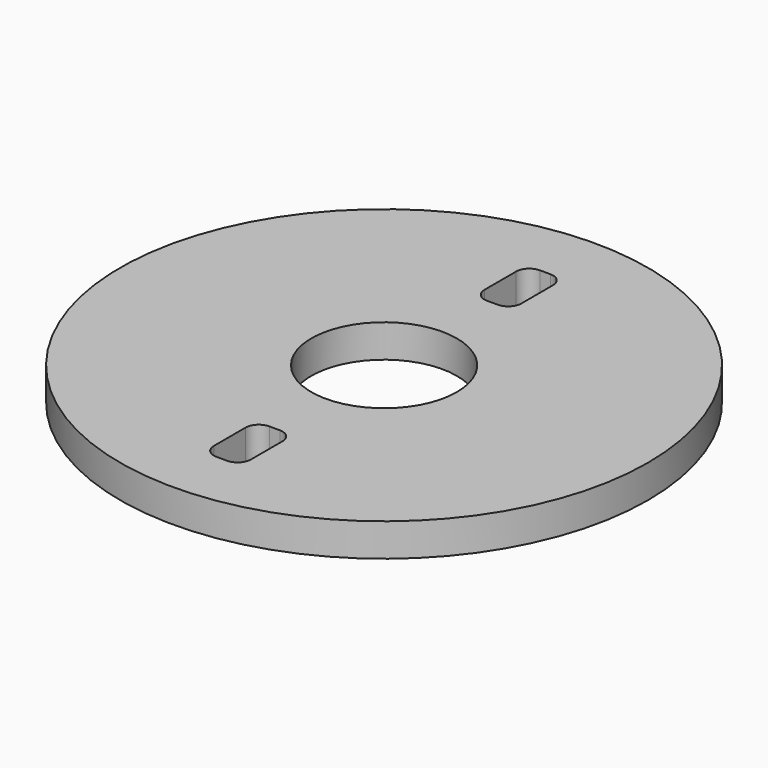
from build123d import *

# Parameters (mm, degrees)
F0_R     = 25.4
F0_R_2   = 7
F1_DEPTH = 3.175


with BuildPart() as f1:
    # F0 (on Top) → F1 (new body)
    with BuildSketch(Plane.XY):
        Circle(F0_R)
        with BuildLine():
            Line((-0.518496, -13.15886), (0.497504, -13.15886))
            ThreePointArc((0.497504, -13.15886), (1.39553, -13.530834), (1.767504, -14.42886))
            Line((1.767504, -14.42886), (1.767504, -18.23886))
            ThreePointArc((1.767504, -18.23886), (1.39553, -19.136886), (0.497504, -19.50886))
            Line((0.497504, -19.50886), (-0.518496, -19.50886))
            ThreePointArc((-0.518496, -19.50886), (-1.416522, -19.136886), (-1.788496, -18.23886))
            Line((-1.788496, -18.23886), (-1.788496, -14.42886))
            ThreePointArc((-1.788496, -14.42886), (-1.416522, -13.530834), (-0.518496, -13.15886))
        make_face(mode=Mode.SUBTRACT)
        Circle(F0_R_2, mode=Mode.SUBTRACT)
        with BuildLine():
            Line((-0.508, 19.375), (0.508, 19.375))
            ThreePointArc((0.508, 19.375), (1.406026, 19.003026), (1.778, 18.105))
            Line((1.778, 18.105), (1.778, 14.295))
            ThreePointArc((1.778, 14.295), (1.406026, 13.396974), (0.508, 13.025))
            Line((0.508, 13.025), (-0.508, 13.025))
            ThreePointArc((-0.508, 13.025), (-1.406026, 13.396974), (-1.778, 14.295))
            Line((-1.778, 14.295), (-1.778, 18.105))
            ThreePointArc((-1.778, 18.105), (-1.406026, 19.003026), (-0.508, 19.375))
        make_face(mode=Mode.SUBTRACT)
    extrude(amount=F1_DEPTH)


solid = f1.part
